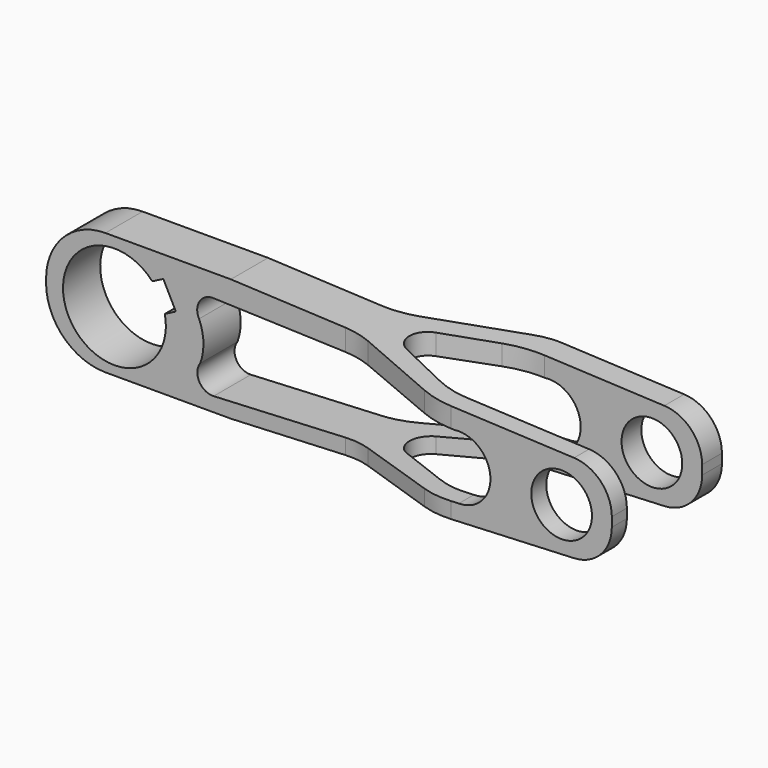
from build123d import *

# Parameters (mm, degrees)
PAD_DEPTH            = 31
FILLET_R             = 15
POCKET_DEPTH         = 24.023168
FILLET001_R          = 15
POCKET001_DEPTH      = 18.144337
POCKET001_DEPTH_BACK = -16.633037
FILLET002_R          = 10
SKETCH003_R          = 7.670171
POCKET002_DEPTH      = 18.144337
POCKET002_DEPTH_BACK = -16.633037
POCKET003_DEPTH      = 18.144337
POCKET003_DEPTH_BACK = -16.633037


with BuildPart() as part:
    # Sketch → Pad (new body)
    with BuildSketch(Plane.XY):
        with BuildLine():
            Line((17.5802, 5.874869), (-57.733299, 5.874869))
            Line((-57.733299, 5.874869), (-57.733299, -5.878831))
            Line((-57.733299, -5.878831), (17.914803, -5.878831))
            ThreePointArc((24.661976, -7.143267), (21.347118, -6.197668), (17.914803, -5.878831))
            Line((24.661976, -7.143267), (45.314852, -15.165812))
            ThreePointArc((45.314852, -15.165812), (49.158723, -16.262318), (53.138796, -16.632037))
            Line((53.138796, -16.632037), (98.306877, -16.632037))
            Line((98.306877, -16.632037), (98.306877, -11.884055))
            Line((98.306877, -11.884055), (53.335909, -11.884055))
            ThreePointArc((45.371277, -10.225885), (49.268204, -11.465115), (53.335909, -11.884055))
            Line((32.389291, -4.575495), (45.371277, -10.225885))
            ThreePointArc((32.39346, 4.595455), (29.384719, 0.011347), (32.389291, -4.575495))
            Line((44.784154, 9.975093), (32.39346, 4.595455))
            ThreePointArc((53.974339, 11.884055), (49.281162, 11.401775), (44.784154, 9.975093))
            Line((98.300218, 11.884055), (53.974339, 11.884055))
            Line((98.300218, 18.143337), (98.300218, 11.884055))
            Line((53.605767, 18.143337), (98.300218, 18.143337))
            ThreePointArc((53.605767, 18.143337), (50.367046, 17.81052), (47.2637, 16.825979))
            Line((26.131771, 7.651179), (47.2637, 16.825979))
            ThreePointArc((17.5802, 5.874869), (21.947254, 6.323636), (26.131771, 7.651179))
        make_face()
    extrude(amount=PAD_DEPTH)

    # Fillet
    fillet_edges = [part.edges().sort_by_distance(p)[0] for p in [
        (98.306877, -14.258046, 31),
        (98.300218, 15.013696, 31),
        (98.306877, -14.258046, 0),
        (98.300218, 15.013696, 0),
    ]]
    fillet(fillet_edges, radius=FILLET_R)

    # Sketch001 (on Face13 of Fillet) → Pocket (cut, through all)
    with BuildSketch(Plane(origin=(3, -5.878831, 20), x_dir=(0.891007, 0, 0.45399), z_dir=(0, -1, 0))):
        with BuildLine():
            ThreePointArc((-28.331719, 19.051588), (-53.844012, 15.55741), (-28.331719, 12.063232))
            Line((-25.207983, 12.063232), (-28.331719, 12.063232))
            Line((-25.207983, 19.051588), (-25.207983, 12.063232))
            Line((-28.331719, 19.051588), (-25.207983, 19.051588))
        make_face()
    extrude(amount=-POCKET_DEPTH, mode=Mode.SUBTRACT)

    # Fillet001
    fillet001_edges = [part.edges().sort_by_distance(p)[0] for p in [
        (-57.733299, -0.001981, 31),
        (-57.733299, -0.001981, 0),
    ]]
    fillet(fillet001_edges, radius=FILLET001_R)

    # Sketch002 → Pocket001 (cut, two sides)
    with BuildSketch(Plane.XZ) as pocket001_sk:
        Polygon((-48.132477, 32.687893), (93.832344, 26.227839), (93.832344, 4.772161), (-48.132477, -1.687893), (-48.132477, -33.037488), (136.738275, -33.037488), (136.738275, 64.037488), (-48.132477, 64.037488), align=None)
    extrude(amount=-POCKET001_DEPTH, mode=Mode.SUBTRACT)
    extrude(pocket001_sk.sketch, amount=-POCKET001_DEPTH_BACK, mode=Mode.SUBTRACT)

    # Fillet002
    fillet002_edges = [part.edges().sort_by_distance(p)[0] for p in [
        (93.832344, 15.013696, 26.227839),
        (93.832344, -14.258046, 26.227839),
        (93.832344, 15.013696, 4.772161),
        (93.832344, -14.258046, 4.772161),
    ]]
    fillet(fillet002_edges, radius=FILLET002_R)

    # Sketch003 → Pocket002 (cut, two sides)
    with BuildSketch(Plane.XZ) as pocket002_sk:
        with Locations((81.142525, 15.22629)):
            Circle(SKETCH003_R)
    extrude(amount=-POCKET002_DEPTH, mode=Mode.SUBTRACT)
    extrude(pocket002_sk.sketch, amount=-POCKET002_DEPTH_BACK, mode=Mode.SUBTRACT)

    # Sketch004 → Pocket003 (cut, two sides)
    with BuildSketch(Plane.XZ) as pocket003_sk:
        with BuildLine():
            ThreePointArc((-15.271182, 25.376072), (-18.898724, 23.62511), (-19.082655, 19.601294))
            ThreePointArc((-18.766414, 9.83565), (-17.972747, 14.749294), (-19.082655, 19.601294))
            ThreePointArc((-18.766414, 9.83565), (-19.039764, 5.656397), (-15.390545, 3.601138))
            Line((-15.390545, 3.601138), (55.165915, 7.037659))
            ThreePointArc((55.165915, 7.037659), (63.138146, 15.614512), (54.086796, 23.043639))
            Line((-15.271182, 25.376072), (54.086796, 23.043639))
        make_face()
    extrude(amount=-POCKET003_DEPTH, mode=Mode.SUBTRACT)
    extrude(pocket003_sk.sketch, amount=-POCKET003_DEPTH_BACK, mode=Mode.SUBTRACT)


solid = part.part
